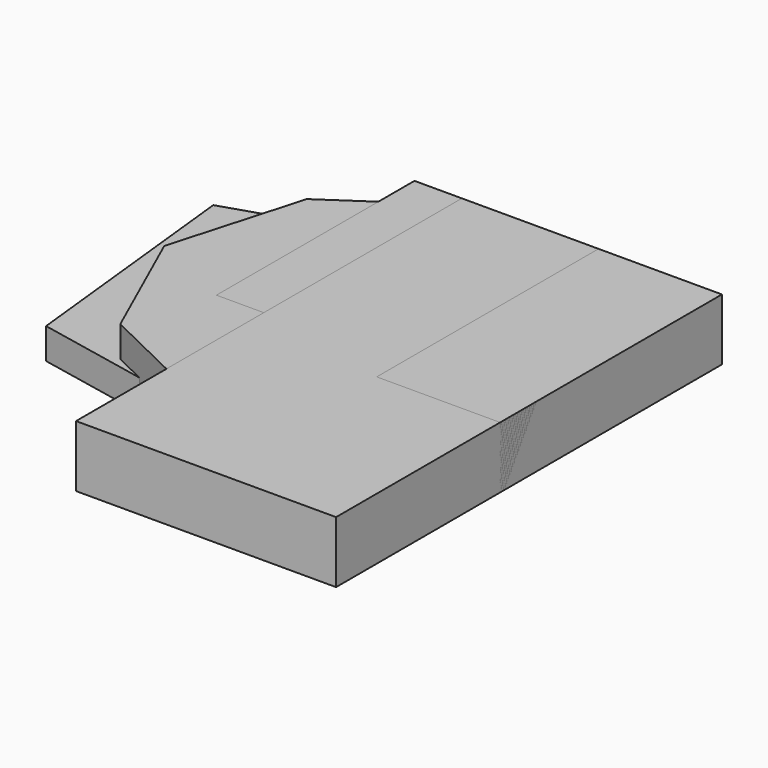
from build123d import *

# Parameters (mm, degrees)
PAD_DEPTH    = 10
PAD001_DEPTH = 10
PAD005_DEPTH = 5
PAD010_DEPTH = 10
PAD015_DEPTH = 10
SKETCH026_W  = 49.87516
SKETCH026_H  = 40.159164
PAD022_DEPTH = 10
SKETCH029_W  = 29.960587
SKETCH029_H  = 30.027189
PAD021_DEPTH = 10
SKETCH031_W  = 42.188831
SKETCH031_H  = 78.241425
PAD018_DEPTH = 10
SKETCH020_W  = 20.015697
SKETCH020_H  = 44.976456
PAD020_DEPTH = 10
PAD033_DEPTH = 5
PAD037_DEPTH = 5
PAD034_DEPTH = 5


with BuildPart() as body:
    # Sketch → Pad (new body)
    with BuildSketch(Plane.XY):
        Polygon((18.167238, -26.824047), (31.159077, -8.870737), (29.571237, 13.23329), (14.146687, 29.145313), (-7.897255, 31.41992), (-26.245984, 18.992798), (-32.313925, -2.321266), (-23.261822, -22.549184), (-3.325253, -32.226088), align=None)
    extrude(amount=PAD_DEPTH)


with BuildPart() as body_1:
    # Body placement: moved
    add(body.part.moved(Location((-31.159077, -31.41992, 0))))


with BuildPart() as body001:
    # Sketch001 → Pad001 (new body)
    with BuildSketch(Plane.XY):
        Polygon((-14.146512, 4.385867), (-14.444172, -3.274984), (-10.871528, -10.058305), (-4.385867, -14.146512), (3.274984, -14.444172), (10.058305, -10.871528), (14.146512, -4.385867), (14.444172, 3.274984), (10.871528, 10.058305), (4.385867, 14.146512), (-3.274984, 14.444172), (-10.058305, 10.871528), align=None)
    extrude(amount=PAD001_DEPTH)


with BuildPart() as body001_1:
    # Body001 placement: moved
    add(body001.part.moved(Location((-14.444172, -14.444172, 0))))


with BuildPart() as body005:
    # Sketch005 → Pad005 (new body)
    with BuildSketch(Plane.XY):
        Polygon((8.917991, 0), (13.337694, 8.722222), (4.077364, 17.140703), (-8.024202, 17.140703), (-17.600224, 1.776977), (-4.762044, -10.850743), (0.920433, -10.850743), align=None)
    extrude(amount=PAD005_DEPTH)


with BuildPart() as body005_1:
    # Body005 placement: moved
    add(body005.part.moved(Location((-13.337694, -17.140703, 0))))


with BuildPart() as body013:
    # Sketch011 → Pad010 (new body)
    with BuildSketch(Plane.XY):
        Polygon((0, 0), (8.205842, -24.465275), (25.290471, -5.12617), align=None)
    extrude(amount=PAD010_DEPTH)


with BuildPart() as body013_1:
    # Body013 placement: moved
    add(body013.part.moved(Location((-25.290471, 0, 0))))


with BuildPart() as body014:
    # Sketch015 → Pad015 (new body)
    with BuildSketch(Plane.XY):
        Polygon((0, 0), (-31.835562, 11.811761), (-26.147066, -21.664525), align=None)
    extrude(amount=PAD015_DEPTH)


with BuildPart() as body014_1:
    # Body014 placement: moved
    add(body014.part.moved(Location((0, -11.811761, 0))))


with BuildPart() as body024:
    # Sketch026 → Pad022 (new body)
    with BuildSketch(Plane.XY):
        with Locations((24.93758, 20.079582)):
            Rectangle(SKETCH026_W, SKETCH026_H)
    extrude(amount=PAD022_DEPTH)


with BuildPart() as body024_1:
    # Body024 placement: moved
    add(body024.part.moved(Location((-49.87516, -40.159164, 0))))


with BuildPart() as body026:
    # Sketch029 → Pad021 (new body)
    with BuildSketch(Plane.XY):
        with Locations((14.980294, 15.013594)):
            Rectangle(SKETCH029_W, SKETCH029_H)
    extrude(amount=PAD021_DEPTH)


with BuildPart() as body026_1:
    # Body026 placement: moved
    add(body026.part.moved(Location((-29.960587, -30.027189, 0))))


with BuildPart() as body028:
    # Sketch031 → Pad018 (new body)
    with BuildSketch(Plane.XY):
        with Locations((21.094416, 39.120712)):
            Rectangle(SKETCH031_W, SKETCH031_H)
    extrude(amount=PAD018_DEPTH)


with BuildPart() as body028_1:
    # Body028 placement: moved
    add(body028.part.moved(Location((-42.188831, -78.241425, 0))))


with BuildPart() as body030:
    # Sketch020 → Pad020 (new body)
    with BuildSketch(Plane.XY):
        with Locations((10.007848, 22.488228)):
            Rectangle(SKETCH020_W, SKETCH020_H)
    extrude(amount=PAD020_DEPTH)


with BuildPart() as body030_1:
    # Body030 placement: moved
    add(body030.part.moved(Location((-20.015697, -44.976456, 0))))


with BuildPart() as body033:
    # Sketch032 → Pad033 (new body)
    with BuildSketch(Plane.XY):
        Polygon((13.408981, 0), (28.432302, 15.739498), (5.023878, 37.401024), (-37.251019, 23.775227), (-33.058464, -15.355267), (11.662088, -24.439129), (34.37175, -12.56023), align=None)
    extrude(amount=PAD033_DEPTH)


with BuildPart() as body033_1:
    # Body033 placement: moved
    add(body033.part.moved(Location((-34.37175, -37.401024, 0))))


with BuildPart() as body034:
    # Sketch035 → Pad037 (new body)
    with BuildSketch(Plane.XY):
        Polygon((13.758363, 0), (12.01147, 9.80005), (-4.409369, 11.896324), (-28.516535, 11.896324), (-29.564672, 0), (-24.673361, -3.476364), (-26.769636, -16.752783), (-8.601904, -11.162712), (4.325122, -16.054022), (16.5534, -8.717056), (24.239746, -11.512094), (21.44471, -2.777609), align=None)
    extrude(amount=PAD037_DEPTH)


with BuildPart() as body034_1:
    # Body034 placement: moved
    add(body034.part.moved(Location((-24.239746, -11.896324, 0))))


with BuildPart() as body036:
    # Sketch038 → Pad034 (new body)
    with BuildSketch(Plane.XY):
        Polygon((0, 23.425846), (7.120159, 10.498806), (22.492847, 9.450668), (8.168289, -2.078853), (14.107744, -16.752783), (0, -10.114574), (-11.04756, -18.150301), (-7.903162, 0), (-19.083288, 10.498806), (-6.505643, 10.498806), align=None)
    extrude(amount=PAD034_DEPTH)


with BuildPart() as body036_1:
    # Body036 placement: moved
    add(body036.part.moved(Location((-22.492847, -23.425846, 0))))


solid = Compound([body_1.part, body001_1.part, body005_1.part, body013_1.part, body014_1.part, body024_1.part, body026_1.part, body028_1.part, body030_1.part, body033_1.part, body034_1.part, body036_1.part])
